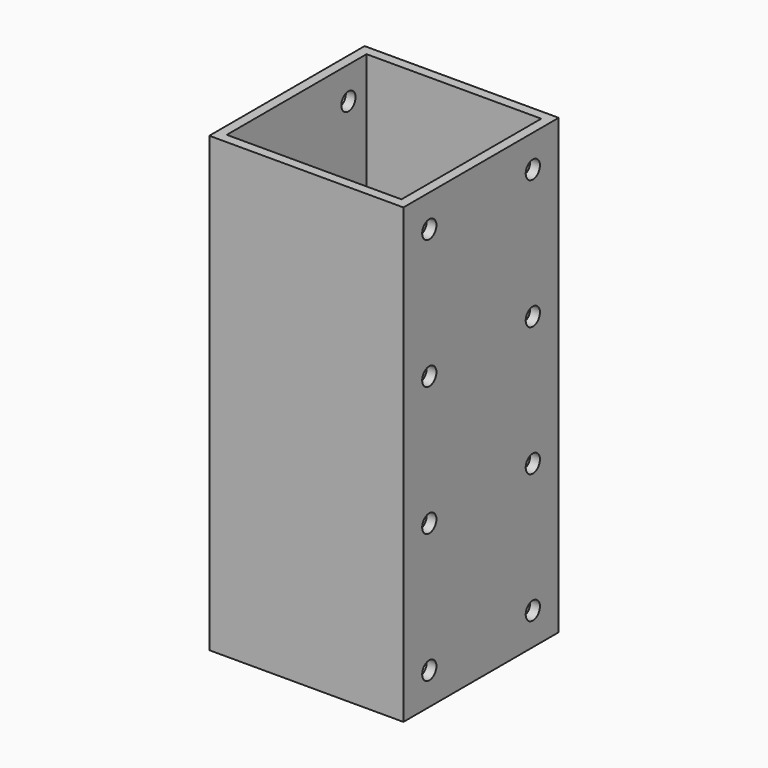
from build123d import *

# Parameters (mm, degrees)
SKETCH_W        = 60
SKETCH_H        = 60
SKETCH_W_2      = 54
SKETCH_H_2      = 54
PAD_DEPTH       = 140
SKETCH001_R     = 2.75
POCKET_DEPTH    = 3
SKETCH002_R     = 2.75
POCKET001_DEPTH = 3


with BuildPart() as part:
    # Sketch → Pad (new body)
    with BuildSketch(Plane.XY):
        Rectangle(SKETCH_W, SKETCH_H)
        Rectangle(SKETCH_W_2, SKETCH_H_2, mode=Mode.SUBTRACT)
    extrude(amount=PAD_DEPTH)

    # Sketch001 (on Face2 of Pad) → Pocket (cut)
    with BuildSketch(Plane.YZ.offset(30)):
        with Locations((-20, 130)):
            Circle(SKETCH001_R)
        with Locations((20, 130)):
            Circle(SKETCH001_R)
        with Locations((-20, 90)):
            Circle(SKETCH001_R)
        with Locations((20, 90)):
            Circle(SKETCH001_R)
        with Locations((-20, 50)):
            Circle(SKETCH001_R)
        with Locations((20, 50)):
            Circle(SKETCH001_R)
        with Locations((-20, 10)):
            Circle(SKETCH001_R)
        with Locations((20, 10)):
            Circle(SKETCH001_R)
    extrude(amount=-POCKET_DEPTH, mode=Mode.SUBTRACT)

    # Sketch002 (on Face2 of Pocket) → Pocket001 (cut)
    with BuildSketch(Plane(origin=(-30, 0, 0), x_dir=(0, -1, 0), z_dir=(-1, 0, 0))):
        with Locations((-20, 130)):
            Circle(SKETCH002_R)
        with Locations((20, 129.999984)):
            Circle(SKETCH002_R)
        with Locations((-20.000016, 90)):
            Circle(SKETCH002_R)
        with Locations((19.999984, 89.999984)):
            Circle(SKETCH002_R)
    extrude(amount=-POCKET001_DEPTH, mode=Mode.SUBTRACT)


solid = part.part
